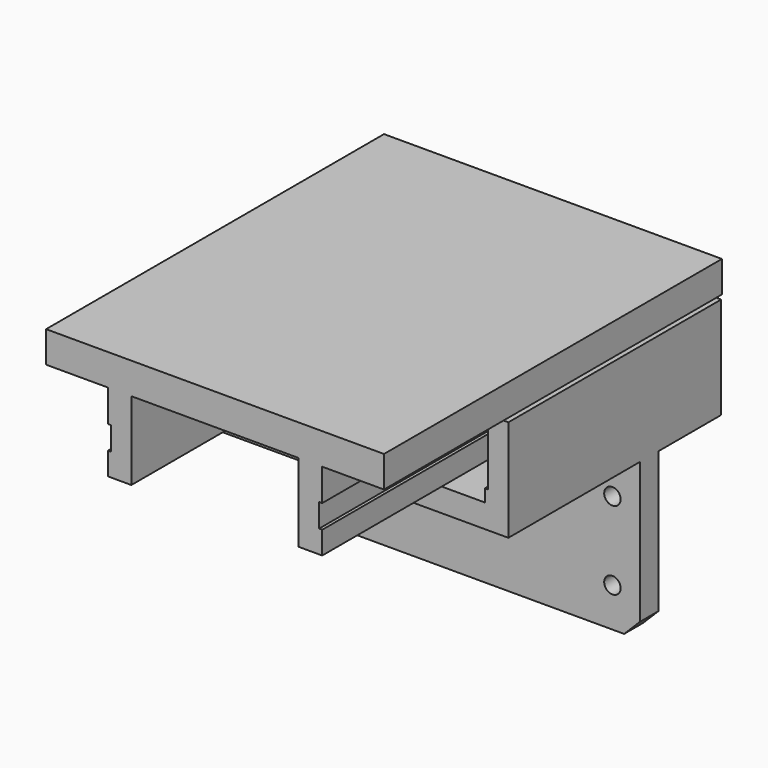
from build123d import *

# Parameters (mm, degrees)
F0_W      = 215
F0_H      = 100
F3_DEPTH  = 15
F4_DEPTH  = 215
F5_W      = 170
F5_H      = 50
F6_DEPTH  = 15
F8_W      = 170
F8_H      = 65
F9_DEPTH  = 15
F10_W     = 170
F10_H     = 34
F12_DEPTH = 2
F11_W     = 170
F11_H     = 34
F13_DEPTH = 2
F15_D     = 10.5
F16_SIZE  = 10
F18_W     = 216
F18_H     = 270
F19_DEPTH = 20
F22_W     = 270
F22_H     = 50
F24_DEPTH = 15
F23_W     = 270
F23_H     = 50
F25_DEPTH = 15
F26_W     = 270
F26_H     = 15
F28_DEPTH = 2
F27_W     = 270
F27_H     = 15
F29_DEPTH = 2
F31_D     = 6.8
F31_DEPTH = 25
F31_TIP   = 2.0429261047


with BuildPart() as f3:
    # F0 (on Front) → F3 (new body)
    with BuildSketch(Plane.XZ):
        Rectangle(F0_W, F0_H)
    extrude(amount=F3_DEPTH)

    # F2 (on offset) → F4 (join)
    with BuildSketch(Plane.YZ.offset(107.5)):
        Polygon((50, 65), (0, 65), (-120, 65), (-120, 50), (50, 50), align=None)
    extrude(amount=-F4_DEPTH)

    # F5 (on offset) → F6 (join)
    with BuildSketch(Plane.YZ.offset(107.5)):
        with Locations((-35, 90)):
            Rectangle(F5_W, F5_H)
    extrude(amount=-F6_DEPTH)

    # F8 (on offset) → F9 (join)
    with BuildSketch(Plane.YZ.offset(-107.5)):
        with Locations((-35, 82.5)):
            Rectangle(F8_W, F8_H)
    extrude(amount=F9_DEPTH)

    # F10 (on face) → F12 (cut)
    with BuildSketch(Plane.YZ.offset(-92.5)):
        with Locations((-35, 90)):
            Rectangle(F10_W, F10_H)
    extrude(amount=-F12_DEPTH, mode=Mode.SUBTRACT)

    # F11 (on face) → F13 (cut)
    with BuildSketch(Plane(origin=(92.5, 0, 0), x_dir=(0, -1, 0), z_dir=(-1, 0, 0))):
        with Locations((35, 90)):
            Rectangle(F11_W, F11_H)
    extrude(amount=-F13_DEPTH, mode=Mode.SUBTRACT)

    # F15 (through all)
    with Locations(Plane.XZ.offset(15)):
        with Locations((-90, 25), (-90, -25), (90, -25), (90, 25)):
            Hole(F15_D / 2)

    # F16
    f16_edges = [f3.edges().sort_by_distance(p)[0] for p in [
        (107.5, -7.5, -50),
        (-107.5, -7.5, -50),
    ]]
    chamfer(f16_edges, length=F16_SIZE)

    # F31
    with Locations(Plane(origin=(-107.5, 0, 0), x_dir=(0, 1, 0), z_dir=(-1, 0, 0))):
        with Locations((-35, -82.5)):
            Hole(F31_D / 2, depth=F31_DEPTH)
            with Locations((0, 0, -(F31_DEPTH + F31_TIP / 2))):  # 118° drill point
                Cone(0, F31_D / 2, F31_TIP, mode=Mode.SUBTRACT)


with BuildPart() as f19:
    # F18 (on offset) → F19 (new body)
    with BuildSketch(Plane.XY.offset(118)):
        with Locations((0, -85)):
            Rectangle(F18_W, F18_H)
    extrude(amount=F19_DEPTH)

    # F22 (on offset) → F24 (join)
    with BuildSketch(Plane.YZ.offset(-68.5)):
        with Locations((-85, 93)):
            Rectangle(F22_W, F22_H)
    extrude(amount=F24_DEPTH)

    # F23 (on offset) → F25 (join)
    with BuildSketch(Plane(origin=(68.5, 0, 0), x_dir=(0, -1, 0), z_dir=(-1, 0, 0))):
        with Locations((85, 93)):
            Rectangle(F23_W, F23_H)
    extrude(amount=F25_DEPTH)

    # F26 (on face) → F28 (cut)
    with BuildSketch(Plane(origin=(68.5, 0, 0), x_dir=(0, -1, 0), z_dir=(-1, 0, 0))):
        with Locations((85, 90)):
            Rectangle(F26_W, F26_H)
    extrude(amount=F28_DEPTH, mode=Mode.SUBTRACT)

    # F27 (on offset) → F29 (cut)
    with BuildSketch(Plane.YZ.offset(-68.5)):
        with Locations((-85, 90)):
            Rectangle(F27_W, F27_H)
    extrude(amount=F29_DEPTH, mode=Mode.SUBTRACT)


solid = Compound([f3.part, f19.part])
